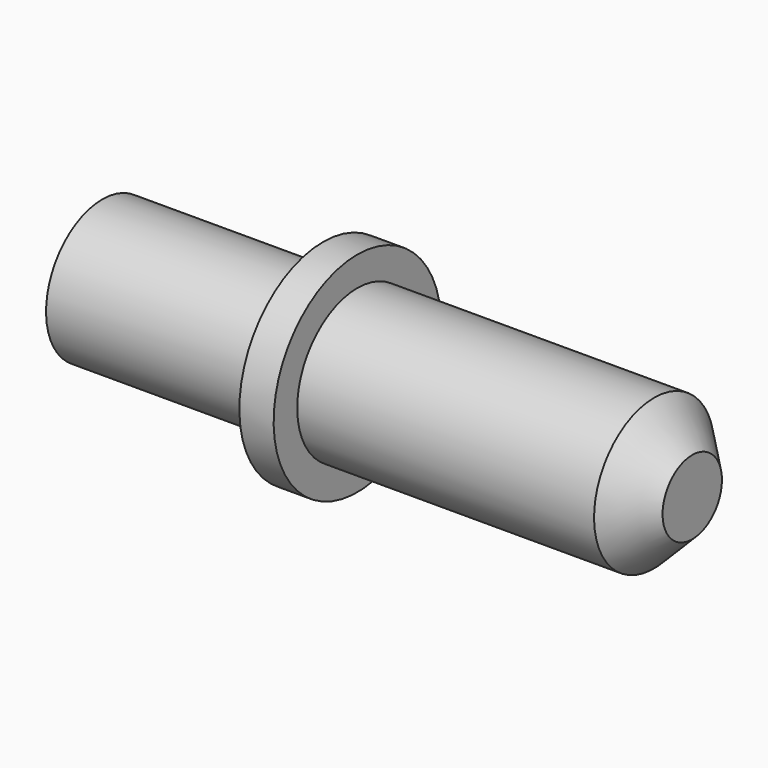
from build123d import *

# Parameters (mm, degrees)
F2_SIZE = 2.54


with BuildPart() as f1:
    # F0 (on Front) → F1 (revolve)
    with BuildSketch(Plane.XZ):
        Polygon((-39.37, 0), (0, 0), (0, 5.0165), (-22.352, 5.0165), (-22.352, 6.985), (-24.638, 6.985), (-24.638, 4.699), (-39.37, 4.699), align=None)
    revolve(axis=Axis((-19.685, 0, 0), (1, 0, 0)))

    # F2
    f2_edges = [f1.edges().sort_by_distance(p)[0] for p in [
        (0, 0, -5.0165),
    ]]
    chamfer(f2_edges, length=F2_SIZE)


solid = f1.part
